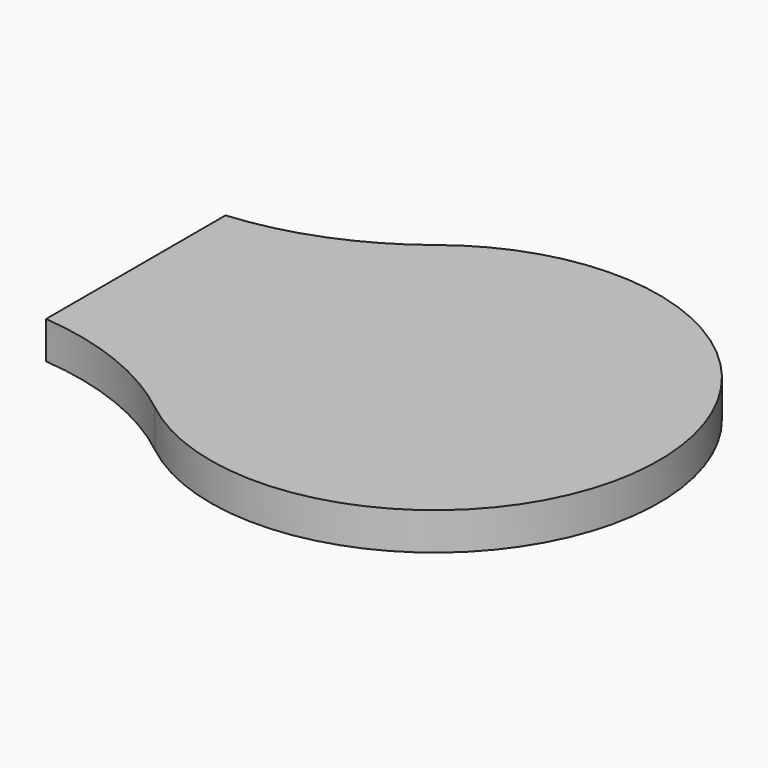
from build123d import *

# Parameters (mm, degrees)
F1_DEPTH = 0.5


with BuildPart() as f1:
    # F0 (on Top) → F1 (new body)
    with BuildSketch(Plane.XY):
        with BuildLine():
            ThreePointArc((-4, -1.5), (-2.869605, -1.768529), (-1.864066, -2.350587))
            ThreePointArc((-1.864066, -2.350587), (3, 0), (-1.864066, 2.350587))
            ThreePointArc((-1.864066, 2.350587), (-2.869605, 1.768529), (-4, 1.5))
            Line((-4, 1.5), (-4, -1.5))
        make_face()
    extrude(amount=F1_DEPTH)


solid = f1.part
